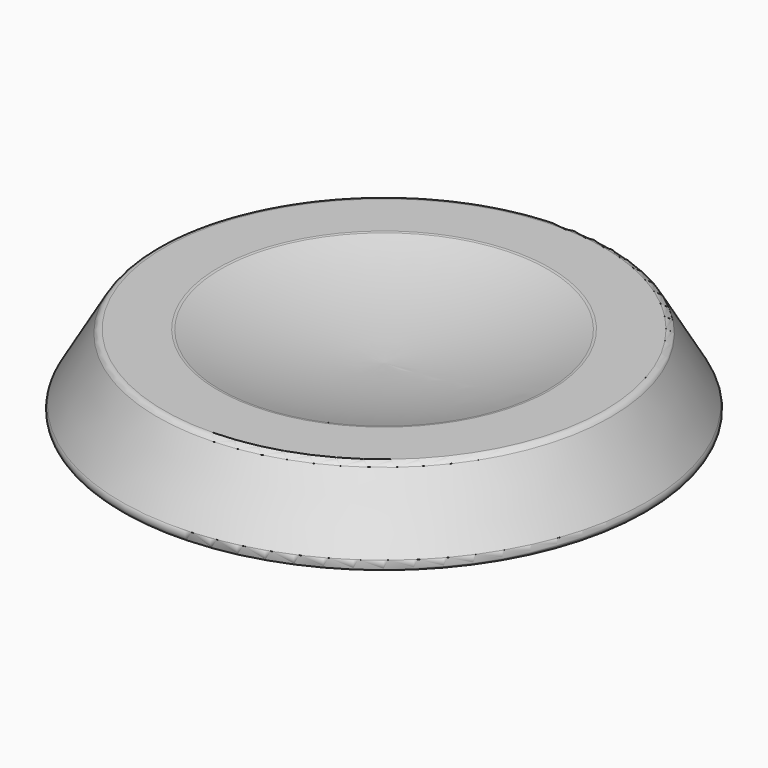
from build123d import *

# Parameters (mm, degrees)
F2_R = 0.5


with BuildPart() as f1:
    # F0 (on Front) → F1 (revolve)
    with BuildSketch(Plane.XZ):
        with BuildLine():
            ThreePointArc((11, 0), (5.575974, -1.417859), (0, -2))
            Line((0, -2), (0, -5.196152))
            Line((0, -5.196152), (18, -5.196152))
            Line((18, -5.196152), (15, 0))
            Line((15, 0), (11, 0))
        make_face()
    revolve(axis=Axis((0, 0, -3.598076), (0, 0, 1)))

    # F2
    f2_edges = [f1.edges().sort_by_distance(p)[0] for p in [
        (-18, 0, -5.196152),
        (-11, 0, 0),
        (-15, 0, 0),
    ]]
    fillet(f2_edges, radius=F2_R)


solid = f1.part
